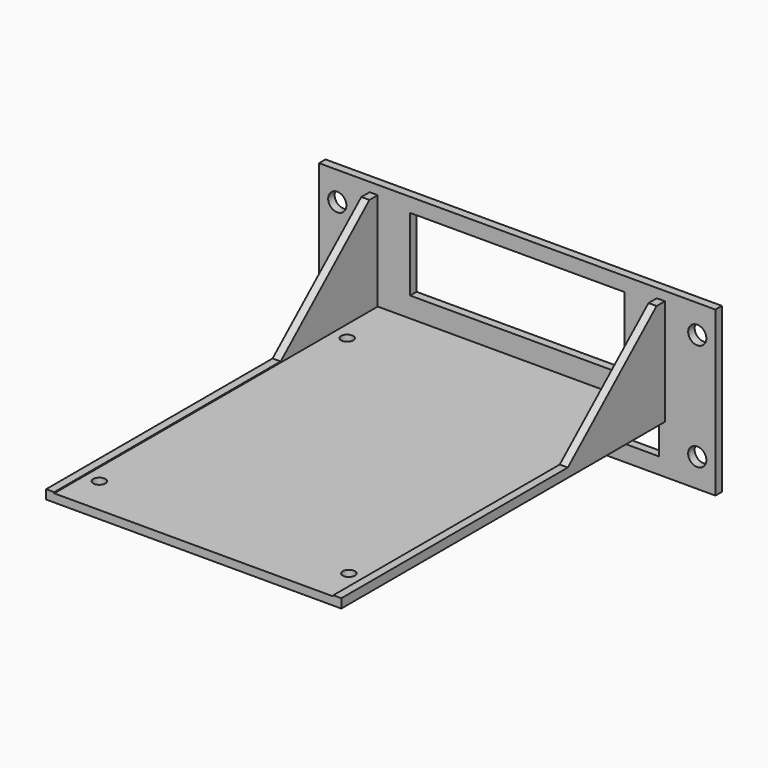
from build123d import *

# Parameters (mm, degrees)
SKETCH007_W     = 98
SKETCH007_H     = 40.5
SKETCH007_R     = 2.25
SKETCH007_W_2   = 53
SKETCH007_H_2   = 18
SKETCH007_W_3   = 70
SKETCH007_H_3   = 8
PAD_DEPTH       = 2
PAD004_DEPTH    = 100
SKETCH011_R     = 1.5
POCKET005_DEPTH = 5
POCKET006_DEPTH = 105.7135


with BuildPart() as part:
    # Sketch007 → Pad (new body)
    with BuildSketch(Plane.XZ):
        with Locations((-56.7125, 0)):
            Rectangle(SKETCH007_W, SKETCH007_H)
        with Locations((-12.2125, 13.25)):
            Circle(SKETCH007_R, mode=Mode.SUBTRACT)
        with Locations((-12.2125, -13.25)):
            Circle(SKETCH007_R, mode=Mode.SUBTRACT)
        with Locations((-101.2125, -13.25)):
            Circle(SKETCH007_R, mode=Mode.SUBTRACT)
        with Locations((-101.2125, 13.25)):
            Circle(SKETCH007_R, mode=Mode.SUBTRACT)
        with Locations((-56.7125, 7.75)):
            Rectangle(SKETCH007_W_2, SKETCH007_H_2, mode=Mode.SUBTRACT)
        with Locations((-56.7125, -12.25)):
            Rectangle(SKETCH007_W_3, SKETCH007_H_3, mode=Mode.SUBTRACT)
    extrude(amount=-PAD_DEPTH)

    # Sketch008 → Pad004 (join)
    with BuildSketch(Plane.XZ):
        Polygon((-20.2125, 18), (-20.2125, -8.25), (-93.2125, -8.25), (-93.2125, 18), (-91.2125, 18), (-91.2125, -6.25), (-22.2125, -6.25), (-22.2125, 18), align=None)
    extrude(amount=PAD004_DEPTH)

    # Sketch011 → Pocket005 (cut)
    with BuildSketch(Plane.XY.offset(-6)):
        with Locations((-87.57, -14)):
            Circle(SKETCH011_R)
        with Locations((-25.86, -14)):
            Circle(SKETCH011_R)
        with Locations((-87.57, -90.6)):
            Circle(SKETCH011_R)
        with Locations((-25.86, -90.6)):
            Circle(SKETCH011_R)
    extrude(amount=-POCKET005_DEPTH, mode=Mode.SUBTRACT)

    # Sketch012 → Pocket006 (cut, through all)
    with BuildSketch(Plane.YZ):
        Polygon((-109.56, -6), (-30, -6), (0, 20.25), (-109.56, 20.25), align=None)
    extrude(amount=-POCKET006_DEPTH, mode=Mode.SUBTRACT)


solid = part.part
